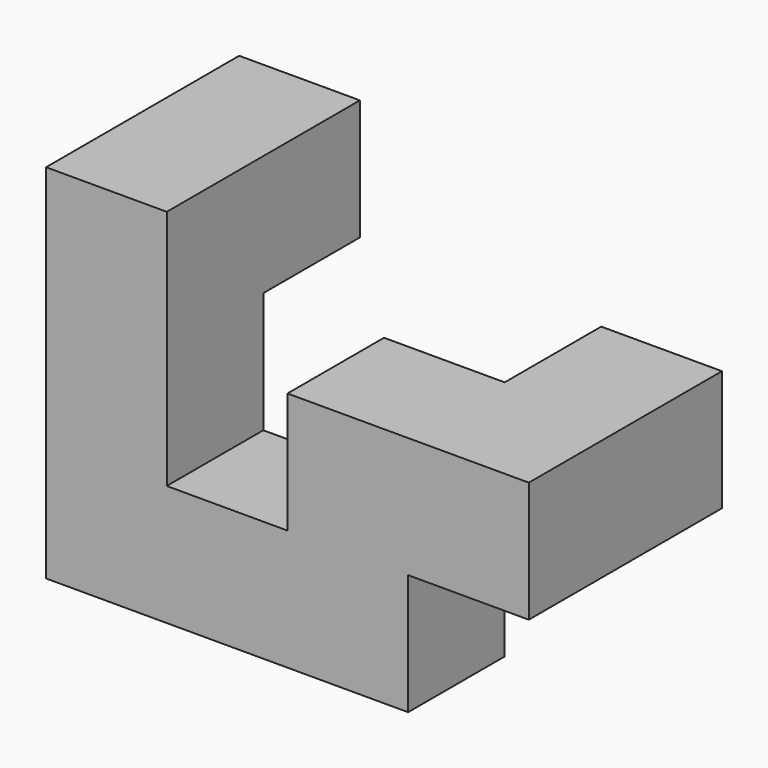
from build123d import *

# Parameters (mm, degrees)
F0_W     = 12.7
F0_H     = 12.7
F1_DEPTH = 12.7
F2_DEPTH = 12.7


with BuildPart() as f1:
    # F0 (on Front) → F1 (new body)
    with BuildSketch(Plane.XZ):
        with Locations((-54.735524, 43.792849)):
            Rectangle(F0_W, F0_H)
        with Locations((-54.735524, 31.092849)):
            Rectangle(F0_W, F0_H)
        with Locations((-29.335524, 31.092849)):
            Rectangle(F0_W, F0_H)
        with Locations((-42.035524, 31.092849)):
            Rectangle(F0_W, F0_H)
        with Locations((-29.335524, 43.792849)):
            Rectangle(F0_W, F0_H)
    extrude(amount=F1_DEPTH)

    # F0 (on Front) → F2 (join, symmetric)
    with BuildSketch(Plane.XZ):
        with Locations((-54.735524, 56.492849)):
            Rectangle(F0_W, F0_H)
        with Locations((-16.635524, 43.792849)):
            Rectangle(F0_W, F0_H)
    extrude(amount=F2_DEPTH, both=True)


solid = f1.part
